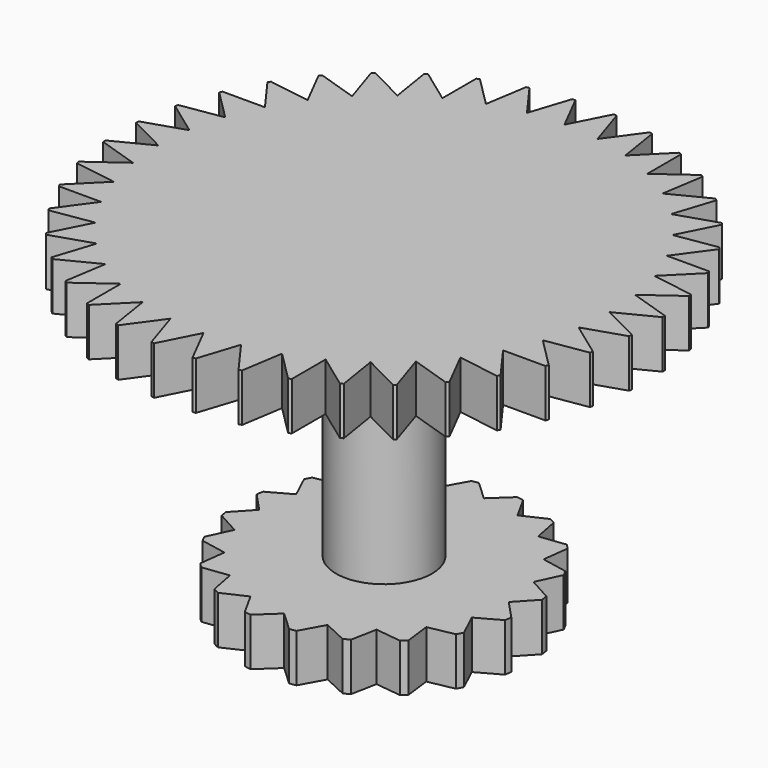
from build123d import *

# Parameters (mm, degrees)
F0_R     = 19.05
F1_DEPTH = 6.35
F2_R     = 6.35
F3_DEPTH = 31.75
F4_R     = 34.925
F5_DEPTH = 6.35
F7_DEPTH = 25.4
F9_DEPTH = 25.4


with BuildPart() as f1:
    # F0 (on Top) → F1 (new body)
    with BuildSketch(Plane.XY):
        Circle(F0_R)
    extrude(amount=F1_DEPTH)

    # F2 (on face) → F3 (join)
    with BuildSketch(Plane.XY.offset(6.35)):
        Circle(F2_R)
    extrude(amount=F3_DEPTH)

    # F4 (on face) → F5 (join)
    with BuildSketch(Plane.XY.offset(38.1)):
        Circle(F4_R)
    extrude(amount=F5_DEPTH)

    # F6 (on face) → F7 (cut)
    with BuildSketch(Plane(origin=(0, 0, 0), x_dir=(1, 0, 0), z_dir=(0, 0, -1))):
        with BuildLine():
            Line((-2.54, 18.8799073091), (0, 16.51))
            Line((0, 16.51), (2.54, 18.8799073091))
            ThreePointArc((2.54, 18.8799073091), (0, 19.05), (-2.54, 18.8799073091))
        make_face()
        with BuildLine():
            Line((-8.2498957621, 17.1709557077), (-5.1018705771, 15.701943084))
            Line((-5.1018705771, 15.701943084), (-3.4185286593, 18.7407620391))
            ThreePointArc((-3.4185286593, 18.7407620391), (-5.8867737428, 18.1176266354), (-8.2498957621, 17.1709557077))
        make_face()
        with BuildLine():
            Line((-13.1522342466, 13.7811913245), (-9.7043345153, 13.3568705771))
            Line((-9.7043345153, 13.3568705771), (-9.0424279152, 16.7671404061))
            ThreePointArc((-9.0424279152, 16.7671404061), (-11.1973090562, 15.4117737428), (-13.1522342466, 13.7811913245))
        make_face()
        with BuildLine():
            Line((-16.7671404061, 9.0424279152), (-13.3568705771, 9.7043345153))
            Line((-13.3568705771, 9.7043345153), (-13.7811913245, 13.1522342466))
            ThreePointArc((-13.7811913245, 13.1522342466), (-15.4117737428, 11.1973090562), (-16.7671404061, 9.0424279152))
        make_face()
        with BuildLine():
            Line((-18.7407620391, 3.4185286593), (-15.701943084, 5.1018705771))
            Line((-15.701943084, 5.1018705771), (-17.1709557077, 8.2498957621))
            ThreePointArc((-17.1709557077, 8.2498957621), (-18.1176266354, 5.8867737428), (-18.7407620391, 3.4185286593))
        make_face()
        with BuildLine():
            Line((-18.8799073091, -2.54), (-16.51, 0))
            Line((-16.51, 0), (-18.8799073091, 2.54))
            ThreePointArc((-18.8799073091, 2.54), (-19.05, 0), (-18.8799073091, -2.54))
        make_face()
        with BuildLine():
            Line((-17.1709557077, -8.2498957621), (-15.701943084, -5.1018705771))
            Line((-15.701943084, -5.1018705771), (-18.7407620391, -3.4185286593))
            ThreePointArc((-18.7407620391, -3.4185286593), (-18.1176266354, -5.8867737428), (-17.1709557077, -8.2498957621))
        make_face()
        with BuildLine():
            Line((-13.7811913245, -13.1522342466), (-13.3568705771, -9.7043345153))
            Line((-13.3568705771, -9.7043345153), (-16.7671404061, -9.0424279152))
            ThreePointArc((-16.7671404061, -9.0424279152), (-15.4117737428, -11.1973090562), (-13.7811913245, -13.1522342466))
        make_face()
        with BuildLine():
            Line((-9.0424279152, -16.7671404061), (-9.7043345153, -13.3568705771))
            Line((-9.7043345153, -13.3568705771), (-13.1522342466, -13.7811913245))
            ThreePointArc((-13.1522342466, -13.7811913245), (-11.1973090562, -15.4117737428), (-9.0424279152, -16.7671404061))
        make_face()
        with BuildLine():
            Line((-3.4185286593, -18.7407620391), (-5.1018705771, -15.701943084))
            Line((-5.1018705771, -15.701943084), (-8.2498957621, -17.1709557077))
            ThreePointArc((-8.2498957621, -17.1709557077), (-5.8867737428, -18.1176266354), (-3.4185286593, -18.7407620391))
        make_face()
        with BuildLine():
            Line((2.54, -18.8799073091), (0, -16.51))
            Line((0, -16.51), (-2.54, -18.8799073091))
            ThreePointArc((-2.54, -18.8799073091), (0, -19.05), (2.54, -18.8799073091))
        make_face()
        with BuildLine():
            Line((8.2498957621, -17.1709557077), (5.1018705771, -15.701943084))
            Line((5.1018705771, -15.701943084), (3.4185286593, -18.7407620391))
            ThreePointArc((3.4185286593, -18.7407620391), (5.8867737428, -18.1176266354), (8.2498957621, -17.1709557077))
        make_face()
        with BuildLine():
            Line((13.1522342466, -13.7811913245), (9.7043345153, -13.3568705771))
            Line((9.7043345153, -13.3568705771), (9.0424279152, -16.7671404061))
            ThreePointArc((9.0424279152, -16.7671404061), (11.1973090562, -15.4117737428), (13.1522342466, -13.7811913245))
        make_face()
        with BuildLine():
            Line((16.7671404061, -9.0424279152), (13.3568705771, -9.7043345153))
            Line((13.3568705771, -9.7043345153), (13.7811913245, -13.1522342466))
            ThreePointArc((13.7811913245, -13.1522342466), (15.4117737428, -11.1973090562), (16.7671404061, -9.0424279152))
        make_face()
        with BuildLine():
            Line((18.7407620391, -3.4185286593), (15.701943084, -5.1018705771))
            Line((15.701943084, -5.1018705771), (17.1709557077, -8.2498957621))
            ThreePointArc((17.1709557077, -8.2498957621), (18.1176266354, -5.8867737428), (18.7407620391, -3.4185286593))
        make_face()
        with BuildLine():
            Line((18.8799073091, 2.54), (16.51, 0))
            Line((16.51, 0), (18.8799073091, -2.54))
            ThreePointArc((18.8799073091, -2.54), (19.05, 0), (18.8799073091, 2.54))
        make_face()
        with BuildLine():
            Line((17.1709557077, 8.2498957621), (15.701943084, 5.1018705771))
            Line((15.701943084, 5.1018705771), (18.7407620391, 3.4185286593))
            ThreePointArc((18.7407620391, 3.4185286593), (18.1176266354, 5.8867737428), (17.1709557077, 8.2498957621))
        make_face()
        with BuildLine():
            Line((13.7811913245, 13.1522342466), (13.3568705771, 9.7043345153))
            Line((13.3568705771, 9.7043345153), (16.7671404061, 9.0424279152))
            ThreePointArc((16.7671404061, 9.0424279152), (15.4117737428, 11.1973090562), (13.7811913245, 13.1522342466))
        make_face()
        with BuildLine():
            Line((9.0424279152, 16.7671404061), (9.7043345153, 13.3568705771))
            Line((9.7043345153, 13.3568705771), (13.1522342466, 13.7811913245))
            ThreePointArc((13.1522342466, 13.7811913245), (11.1973090562, 15.4117737428), (9.0424279152, 16.7671404061))
        make_face()
        with BuildLine():
            Line((3.4185286593, 18.7407620391), (5.1018705771, 15.701943084))
            Line((5.1018705771, 15.701943084), (8.2498957621, 17.1709557077))
            ThreePointArc((8.2498957621, 17.1709557077), (5.8867737428, 18.1176266354), (3.4185286593, 18.7407620391))
        make_face()
    extrude(amount=-F7_DEPTH, mode=Mode.SUBTRACT)

    # F8 (on face) → F9 (cut)
    with BuildSketch(Plane.XY.offset(44.45)):
        with BuildLine():
            Line((-2.54, 34.8325139058), (0, 29.845))
            Line((0, 29.845), (2.54, 34.8325139058))
            ThreePointArc((2.54, 34.8325139058), (0, 34.925), (-2.54, 34.8325139058))
        make_face()
        with BuildLine():
            Line((-7.957734064, 34.0063243172), (-4.6687866091, 29.4775585251))
            Line((-4.6687866091, 29.4775585251), (-2.9402772938, 34.8010113996))
            ThreePointArc((-2.9402772938, 34.8010113996), (-5.4634736915, 34.4950152953), (-7.957734064, 34.0063243172))
        make_face()
        with BuildLine():
            Line((-13.1795223051, 32.3427861634), (-9.2226121971, 28.3842817288))
            Line((-9.2226121971, 28.3842817288), (-8.3481552023, 33.9125924948))
            ThreePointArc((-8.3481552023, 33.9125924948), (-10.7924185285, 33.2156488316), (-13.1795223051, 32.3427861634))
        make_face()
        with BuildLine():
            Line((-18.0767869667, 29.8828612746), (-13.5493464647, 26.5920897144))
            Line((-13.5493464647, 26.5920897144), (-13.5504738239, 32.1891330133))
            ThreePointArc((-13.5504738239, 32.1891330133), (-15.8556182034, 31.1184028573), (-18.0767869667, 29.8828612746))
        make_face()
        with BuildLine():
            Line((-22.5289411398, 26.6871211658), (-17.5424508547, 24.1451121971))
            Line((-17.5424508547, 24.1451121971), (-18.4191348084, 29.6730702474))
            ThreePointArc((-18.4191348084, 29.6730702474), (-20.5283999363, 28.2549185285), (-22.5289411398, 26.6871211658))
        make_face()
        with BuildLine():
            Line((-26.4263580128, 22.8342555644), (-21.1036018845, 21.1036018845))
            Line((-21.1036018845, 21.1036018845), (-22.8342555644, 26.4263580128))
            ThreePointArc((-22.8342555644, 26.4263580128), (-24.6957043329, 24.6957043329), (-26.4263580128, 22.8342555644))
        make_face()
        with BuildLine():
            Line((-29.6730702474, 18.4191348084), (-24.1451121971, 17.5424508547))
            Line((-24.1451121971, 17.5424508547), (-26.6871211658, 22.5289411398))
            ThreePointArc((-26.6871211658, 22.5289411398), (-28.2549185285, 20.5283999363), (-29.6730702474, 18.4191348084))
        make_face()
        with BuildLine():
            Line((-32.1891330133, 13.5504738239), (-26.5920897144, 13.5493464647))
            Line((-26.5920897144, 13.5493464647), (-29.8828612746, 18.0767869667))
            ThreePointArc((-29.8828612746, 18.0767869667), (-31.1184028573, 15.8556182034), (-32.1891330133, 13.5504738239))
        make_face()
        with BuildLine():
            Line((-33.9125924948, 8.3481552023), (-28.3842817288, 9.2226121971))
            Line((-28.3842817288, 9.2226121971), (-32.3427861634, 13.1795223051))
            ThreePointArc((-32.3427861634, 13.1795223051), (-33.2156488316, 10.7924185285), (-33.9125924948, 8.3481552023))
        make_face()
        with BuildLine():
            Line((-34.8010113996, 2.9402772938), (-29.4775585251, 4.6687866091))
            Line((-29.4775585251, 4.6687866091), (-34.0063243172, 7.957734064))
            ThreePointArc((-34.0063243172, 7.957734064), (-34.4950152953, 5.4634736915), (-34.8010113996, 2.9402772938))
        make_face()
        with BuildLine():
            Line((-34.8325139058, -2.54), (-29.845, 0))
            Line((-29.845, 0), (-34.8325139058, 2.54))
            ThreePointArc((-34.8325139058, 2.54), (-34.925, 0), (-34.8325139058, -2.54))
        make_face()
        with BuildLine():
            Line((-34.0063243172, -7.957734064), (-29.4775585251, -4.6687866091))
            Line((-29.4775585251, -4.6687866091), (-34.8010113996, -2.9402772938))
            ThreePointArc((-34.8010113996, -2.9402772938), (-34.4950152953, -5.4634736915), (-34.0063243172, -7.957734064))
        make_face()
        with BuildLine():
            Line((-32.3427861634, -13.1795223051), (-28.3842817288, -9.2226121971))
            Line((-28.3842817288, -9.2226121971), (-33.9125924948, -8.3481552023))
            ThreePointArc((-33.9125924948, -8.3481552023), (-33.2156488316, -10.7924185285), (-32.3427861634, -13.1795223051))
        make_face()
        with BuildLine():
            Line((-29.8828612746, -18.0767869667), (-26.5920897144, -13.5493464647))
            Line((-26.5920897144, -13.5493464647), (-32.1891330133, -13.5504738239))
            ThreePointArc((-32.1891330133, -13.5504738239), (-31.1184028573, -15.8556182034), (-29.8828612746, -18.0767869667))
        make_face()
        with BuildLine():
            Line((-26.6871211658, -22.5289411398), (-24.1451121971, -17.5424508547))
            Line((-24.1451121971, -17.5424508547), (-29.6730702474, -18.4191348084))
            ThreePointArc((-29.6730702474, -18.4191348084), (-28.2549185285, -20.5283999363), (-26.6871211658, -22.5289411398))
        make_face()
        with BuildLine():
            Line((-22.8342555644, -26.4263580128), (-21.1036018845, -21.1036018845))
            Line((-21.1036018845, -21.1036018845), (-26.4263580128, -22.8342555644))
            ThreePointArc((-26.4263580128, -22.8342555644), (-24.6957043329, -24.6957043329), (-22.8342555644, -26.4263580128))
        make_face()
        with BuildLine():
            Line((-18.4191348084, -29.6730702474), (-17.5424508547, -24.1451121971))
            Line((-17.5424508547, -24.1451121971), (-22.5289411398, -26.6871211658))
            ThreePointArc((-22.5289411398, -26.6871211658), (-20.5283999363, -28.2549185285), (-18.4191348084, -29.6730702474))
        make_face()
        with BuildLine():
            Line((-13.5504738239, -32.1891330133), (-13.5493464647, -26.5920897144))
            Line((-13.5493464647, -26.5920897144), (-18.0767869667, -29.8828612746))
            ThreePointArc((-18.0767869667, -29.8828612746), (-15.8556182034, -31.1184028573), (-13.5504738239, -32.1891330133))
        make_face()
        with BuildLine():
            Line((-8.3481552023, -33.9125924948), (-9.2226121971, -28.3842817288))
            Line((-9.2226121971, -28.3842817288), (-13.1795223051, -32.3427861634))
            ThreePointArc((-13.1795223051, -32.3427861634), (-10.7924185285, -33.2156488316), (-8.3481552023, -33.9125924948))
        make_face()
        with BuildLine():
            Line((-2.9402772938, -34.8010113996), (-4.6687866091, -29.4775585251))
            Line((-4.6687866091, -29.4775585251), (-7.957734064, -34.0063243172))
            ThreePointArc((-7.957734064, -34.0063243172), (-5.4634736915, -34.4950152953), (-2.9402772938, -34.8010113996))
        make_face()
        with BuildLine():
            Line((2.54, -34.8325139058), (0, -29.845))
            Line((0, -29.845), (-2.54, -34.8325139058))
            ThreePointArc((-2.54, -34.8325139058), (0, -34.925), (2.54, -34.8325139058))
        make_face()
        with BuildLine():
            Line((7.957734064, -34.0063243172), (4.6687866091, -29.4775585251))
            Line((4.6687866091, -29.4775585251), (2.9402772938, -34.8010113996))
            ThreePointArc((2.9402772938, -34.8010113996), (5.4634736915, -34.4950152953), (7.957734064, -34.0063243172))
        make_face()
        with BuildLine():
            Line((13.1795223051, -32.3427861634), (9.2226121971, -28.3842817288))
            Line((9.2226121971, -28.3842817288), (8.3481552023, -33.9125924948))
            ThreePointArc((8.3481552023, -33.9125924948), (10.7924185285, -33.2156488316), (13.1795223051, -32.3427861634))
        make_face()
        with BuildLine():
            Line((18.0767869667, -29.8828612746), (13.5493464647, -26.5920897144))
            Line((13.5493464647, -26.5920897144), (13.5504738239, -32.1891330133))
            ThreePointArc((13.5504738239, -32.1891330133), (15.8556182034, -31.1184028573), (18.0767869667, -29.8828612746))
        make_face()
        with BuildLine():
            Line((22.5289411398, -26.6871211658), (17.5424508547, -24.1451121971))
            Line((17.5424508547, -24.1451121971), (18.4191348084, -29.6730702474))
            ThreePointArc((18.4191348084, -29.6730702474), (20.5283999363, -28.2549185285), (22.5289411398, -26.6871211658))
        make_face()
        with BuildLine():
            Line((26.4263580128, -22.8342555644), (21.1036018845, -21.1036018845))
            Line((21.1036018845, -21.1036018845), (22.8342555644, -26.4263580128))
            ThreePointArc((22.8342555644, -26.4263580128), (24.6957043329, -24.6957043329), (26.4263580128, -22.8342555644))
        make_face()
        with BuildLine():
            Line((29.6730702474, -18.4191348084), (24.1451121971, -17.5424508547))
            Line((24.1451121971, -17.5424508547), (26.6871211658, -22.5289411398))
            ThreePointArc((26.6871211658, -22.5289411398), (28.2549185285, -20.5283999363), (29.6730702474, -18.4191348084))
        make_face()
        with BuildLine():
            Line((32.1891330133, -13.5504738239), (26.5920897144, -13.5493464647))
            Line((26.5920897144, -13.5493464647), (29.8828612746, -18.0767869667))
            ThreePointArc((29.8828612746, -18.0767869667), (31.1184028573, -15.8556182034), (32.1891330133, -13.5504738239))
        make_face()
        with BuildLine():
            Line((33.9125924948, -8.3481552023), (28.3842817288, -9.2226121971))
            Line((28.3842817288, -9.2226121971), (32.3427861634, -13.1795223051))
            ThreePointArc((32.3427861634, -13.1795223051), (33.2156488316, -10.7924185285), (33.9125924948, -8.3481552023))
        make_face()
        with BuildLine():
            Line((34.8010113996, -2.9402772938), (29.4775585251, -4.6687866091))
            Line((29.4775585251, -4.6687866091), (34.0063243172, -7.957734064))
            ThreePointArc((34.0063243172, -7.957734064), (34.4950152953, -5.4634736915), (34.8010113996, -2.9402772938))
        make_face()
        with BuildLine():
            Line((34.8325139058, 2.54), (29.845, 0))
            Line((29.845, 0), (34.8325139058, -2.54))
            ThreePointArc((34.8325139058, -2.54), (34.925, 0), (34.8325139058, 2.54))
        make_face()
        with BuildLine():
            Line((34.0063243172, 7.957734064), (29.4775585251, 4.6687866091))
            Line((29.4775585251, 4.6687866091), (34.8010113996, 2.9402772938))
            ThreePointArc((34.8010113996, 2.9402772938), (34.4950152953, 5.4634736915), (34.0063243172, 7.957734064))
        make_face()
        with BuildLine():
            Line((32.3427861634, 13.1795223051), (28.3842817288, 9.2226121971))
            Line((28.3842817288, 9.2226121971), (33.9125924948, 8.3481552023))
            ThreePointArc((33.9125924948, 8.3481552023), (33.2156488316, 10.7924185285), (32.3427861634, 13.1795223051))
        make_face()
        with BuildLine():
            Line((29.8828612746, 18.0767869667), (26.5920897144, 13.5493464647))
            Line((26.5920897144, 13.5493464647), (32.1891330133, 13.5504738239))
            ThreePointArc((32.1891330133, 13.5504738239), (31.1184028573, 15.8556182034), (29.8828612746, 18.0767869667))
        make_face()
        with BuildLine():
            Line((26.6871211658, 22.5289411398), (24.1451121971, 17.5424508547))
            Line((24.1451121971, 17.5424508547), (29.6730702474, 18.4191348084))
            ThreePointArc((29.6730702474, 18.4191348084), (28.2549185285, 20.5283999363), (26.6871211658, 22.5289411398))
        make_face()
        with BuildLine():
            Line((22.8342555644, 26.4263580128), (21.1036018845, 21.1036018845))
            Line((21.1036018845, 21.1036018845), (26.4263580128, 22.8342555644))
            ThreePointArc((26.4263580128, 22.8342555644), (24.6957043329, 24.6957043329), (22.8342555644, 26.4263580128))
        make_face()
        with BuildLine():
            Line((18.4191348084, 29.6730702474), (17.5424508547, 24.1451121971))
            Line((17.5424508547, 24.1451121971), (22.5289411398, 26.6871211658))
            ThreePointArc((22.5289411398, 26.6871211658), (20.5283999363, 28.2549185285), (18.4191348084, 29.6730702474))
        make_face()
        with BuildLine():
            Line((13.5504738239, 32.1891330133), (13.5493464647, 26.5920897144))
            Line((13.5493464647, 26.5920897144), (18.0767869667, 29.8828612746))
            ThreePointArc((18.0767869667, 29.8828612746), (15.8556182034, 31.1184028573), (13.5504738239, 32.1891330133))
        make_face()
        with BuildLine():
            Line((8.3481552023, 33.9125924948), (9.2226121971, 28.3842817288))
            Line((9.2226121971, 28.3842817288), (13.1795223051, 32.3427861634))
            ThreePointArc((13.1795223051, 32.3427861634), (10.7924185285, 33.2156488316), (8.3481552023, 33.9125924948))
        make_face()
        with BuildLine():
            Line((2.9402772938, 34.8010113996), (4.6687866091, 29.4775585251))
            Line((4.6687866091, 29.4775585251), (7.957734064, 34.0063243172))
            ThreePointArc((7.957734064, 34.0063243172), (5.4634736915, 34.4950152953), (2.9402772938, 34.8010113996))
        make_face()
    extrude(amount=-F9_DEPTH, mode=Mode.SUBTRACT)


solid = f1.part
